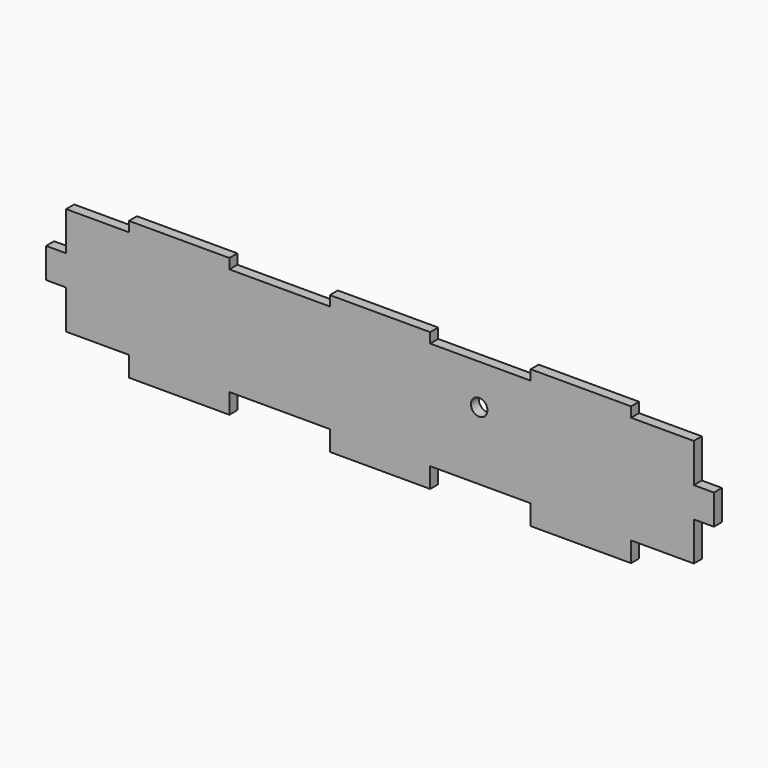
from build123d import *

# Parameters (mm, degrees)
SKETCH011_W     = 266
SKETCH011_H     = 55
PAD008_DEPTH    = 4
SKETCH021_W     = 40
SKETCH021_H     = 30
POCKET004_DEPTH = 4.001
SKETCH037_R     = 3.3
HOLE002_DEPTH   = 25


with BuildPart() as part:
    # Sketch011 (on DatumPlane) → Pad008 (new body)
    with BuildSketch(Plane(origin=(0, -83, -4), x_dir=(-1, 0, 0), z_dir=(0, 1, 0))):
        with Locations((0, 23.5)):
            Rectangle(SKETCH011_W, SKETCH011_H)
    extrude(amount=PAD008_DEPTH)

    # Sketch021 (on Face5 of Pad008) → Pocket004 (cut, through all)
    with BuildSketch(Plane(origin=(0, -83, -4), x_dir=(-1, 0, 0), z_dir=(0, -1, 0))):
        with Locations((-40, 11)):
            Rectangle(SKETCH021_W, SKETCH021_H)
        with Locations((40, 11)):
            Rectangle(SKETCH021_W, SKETCH021_H)
        Polygon((100, 26), (145, 26), (145, 0.5), (155, 0.5), (155, -19.5), (125, -19.5), (125, -4), (100, -4), align=None)
        Polygon((-145, 26), (-100, 26), (-100, -4), (-125, -4), (-125, -19.5), (-155, -19.5), (-155, 0.5), (-145, 0.5), align=None)
        Polygon((-125, -47), (-100, -47), (-100, -77), (-145, -77), (-145, -51.5), (-155, -51.5), (-155, -31.5), (-125, -31.5), align=None)
        with Locations((-40, -62)):
            Rectangle(SKETCH021_W, SKETCH021_H)
        with Locations((40, -62)):
            Rectangle(SKETCH021_W, SKETCH021_H)
        Polygon((100, -47), (125, -47), (125, -31.5), (155, -31.5), (155, -51.5), (145, -51.5), (145, -77), (100, -77), align=None)
    extrude(amount=-POCKET004_DEPTH, mode=Mode.SUBTRACT)

    # Sketch037 (on Face2 of Pocket004) → Hole002 (cut)
    with BuildSketch(Plane(origin=(0, -83, -4), x_dir=(-1, 0, 0), z_dir=(0, -1, 0))):
        with Locations((-39.5, -31)):
            Circle(SKETCH037_R)
    extrude(amount=-HOLE002_DEPTH, mode=Mode.SUBTRACT)


solid = part.part
